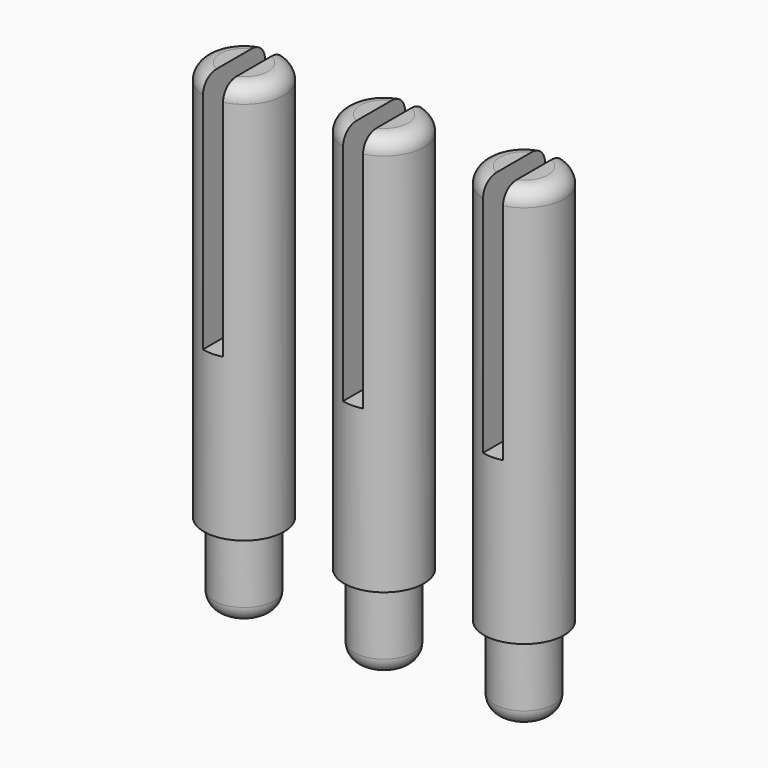
from build123d import *

# Parameters (mm, degrees)
SKETCH005_W      = 0.5
SKETCH005_H      = 3.623337
EXTRUDE010_DEPTH = 6
SKETCH004_R      = 1
EXTRUDE009_DEPTH = 10
FILLET005_R      = 0.4
SKETCH006_R      = 0.75
EXTRUDE011_DEPTH = 2
FILLET006_R      = 0.4
ARRAY001_X_COUNT = 3
ARRAY001_X_PITCH = 3.5


with BuildPart() as extrude010:
    # Sketch005 → Extrude010 (new body)
    with BuildSketch(Plane.XY.offset(7)):
        with Locations((-3.5, -0.188331)):
            Rectangle(SKETCH005_W, SKETCH005_H)
    extrude(amount=-EXTRUDE010_DEPTH)


with BuildPart() as cut001:
    # Sketch004 → Extrude009 (new body)
    with BuildSketch(Plane.XY.offset(7)):
        with Locations((-3.5, 0)):
            Circle(SKETCH004_R)
    extrude(amount=-EXTRUDE009_DEPTH)

    # Fillet005
    fillet005_edges = [cut001.edges().sort_by_distance(p)[0] for p in [
        (-4.5, 0, 7),
    ]]
    fillet(fillet005_edges, radius=FILLET005_R)

    # Cut001: cut Extrude010
    add(extrude010.part, mode=Mode.SUBTRACT)


with BuildPart() as pins:
    # Sketch006 → Extrude011 (new body)
    with BuildSketch(Plane(origin=(0, 0, -3), x_dir=(1, 0, 0), z_dir=(0, 0, -1))):
        with Locations((-3.5, 0)):
            Circle(SKETCH006_R)
    extrude(amount=EXTRUDE011_DEPTH)

    # Fillet006
    fillet006_edges = [pins.edges().sort_by_distance(p)[0] for p in [
        (-4.25, 0, -5),
    ]]
    fillet(fillet006_edges, radius=FILLET006_R)

    # Fusion005: union Cut001
    add(cut001.part)

    # Array001 X: pins ×3


with BuildPart() as pins_1:
    add(pins.part)
    with Locations(*[(i * ARRAY001_X_PITCH, 0, 0) for i in range(1, ARRAY001_X_COUNT)]):
        add(pins.part)


solid = pins_1.part
